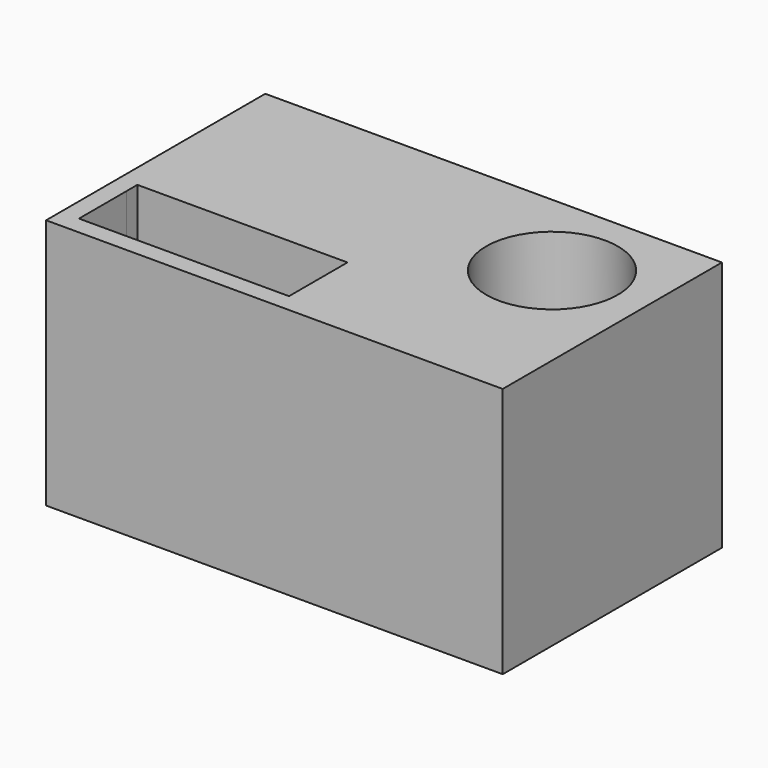
from build123d import *

# Parameters (mm, degrees)
F1_DEPTH = 30
F0_W     = 15.3
F0_H     = 3.7354312371
F0_W_2   = 15.5
F0_H_2   = 3.2645687629
F0_W_3   = 15.2
F2_DEPTH = 5
F3_W     = 100
F3_H     = 60
F3_W_2   = 92
F3_H_2   = 13
F3_H_3   = 33
F4_DEPTH = 25
F6_DEPTH = 25
F5_W     = 46
F5_H     = 13
F7_DEPTH = 25


with BuildPart() as f1:
    # F0 (on Top) → F1 (new body)
    with BuildSketch(Plane.XY):
        Polygon((0, -30), (50, -30), (50, -10), (18.90296489, -10), (0, -10), (0, -13), (46, -13), (46, -26), (0, -26), align=None)
        Polygon((-50, -30), (0, -30), (0, -26), (-46, -26), (-46, -13), (0, -13), (0, -10), (-50, -10), align=None)
        Polygon((18.90296489, -10), (50, -10), (50, 11.9792576879), (46, 11.9792576879), (46, 6.5132789314), (46, 0), (46, -3.7354312371), (46, -7), (30.5, -7), (18.90296489, -7), align=None)
        Polygon((46, 11.9792576879), (50, 11.9792576879), (50, 30), (-14.5761566237, 30), (-14.5761566237, 26), (0, 26), (15.2, 26), (30.5, 26), (46, 26), (46, 19.4), (46, 12.8), align=None)
        Polygon((0, -10), (18.90296489, -10), (18.90296489, -7), (15.2, -7), (0, -7), (-15.4, -7), (-30.7, -7), (-46, -7), (-46, -3.7354312371), (-46, 0), (-46, 6.5132789314), (-50, 6.5132789314), (-50, -10), align=None)
        Polygon((-50, 30), (-50, 6.5132789314), (-46, 6.5132789314), (-46, 12.8), (-46, 19.4), (-46, 26), (-30.7, 26), (-15.4, 26), (-14.5761566237, 26), (-14.5761566237, 30), align=None)
    extrude(amount=F1_DEPTH)

    # F0 (on Top) → F2 (join)
    with BuildSketch(Plane.XY):
        with BuildLine():
            Line((15.2, 11.5132789314), (15.2, 12.8))
            Line((15.2, 12.8), (0, 12.8))
            Line((0, 12.8), (0, 11.2))
            ThreePointArc((0, 11.2), (3.4229815471, 9.8446120957), (4.99017598, 6.5132789314))
            Line((4.99017598, 6.5132789314), (10.2, 6.5132789314))
            ThreePointArc((10.2, 6.5132789314), (11.6644660941, 10.0488128373), (15.2, 11.5132789314))
        make_face()
        with BuildLine():
            Line((0, 0), (15.2, 0))
            Line((15.2, 0), (15.2, 1.5132789314))
            ThreePointArc((15.2, 1.5132789314), (11.6644660941, 2.9777450254), (10.2, 6.5132789314))
            Line((10.2, 6.5132789314), (4.99017598, 6.5132789314))
            ThreePointArc((4.99017598, 6.5132789314), (4.9975433915, 6.3567164639), (5, 6.2))
            ThreePointArc((5, 6.2), (3.5355339059, 2.6644660941), (0, 1.2))
            Line((0, 1.2), (0, 0))
        make_face()
        with BuildLine():
            Line((0, 12.8), (15.2, 12.8))
            Line((15.2, 12.8), (15.2, 14.4))
            ThreePointArc((15.2, 14.4), (11.6644660941, 15.8644660941), (10.2, 19.4))
            Line((10.2, 19.4), (5, 19.4))
            ThreePointArc((5, 19.4), (3.5355339059, 15.8644660941), (0, 14.4))
            Line((0, 14.4), (0, 12.8))
        make_face()
        with BuildLine():
            Line((15.2, 26), (0, 26))
            Line((0, 26), (0, 24.4))
            ThreePointArc((0, 24.4), (3.5355339059, 22.9355339059), (5, 19.4))
            Line((5, 19.4), (10.2, 19.4))
            ThreePointArc((10.2, 19.4), (11.6644660941, 22.9355339059), (15.2, 24.4))
            Line((15.2, 24.4), (15.2, 26))
        make_face()
        with BuildLine():
            Line((15.2, 0), (30.5, 0))
            Line((30.5, 0), (30.5, 1.2))
            ThreePointArc((30.5, 1.2), (26.8553879043, 2.7770184529), (25.50982402, 6.5132789314))
            Line((25.50982402, 6.5132789314), (20.2, 6.5132789314))
            ThreePointArc((20.2, 6.5132789314), (18.7355339059, 2.9777450254), (15.2, 1.5132789314))
            Line((15.2, 1.5132789314), (15.2, 0))
        make_face()
        with BuildLine():
            Line((30.5, 11.2), (30.5, 12.8))
            Line((30.5, 12.8), (15.2, 12.8))
            Line((15.2, 12.8), (15.2, 11.5132789314))
            ThreePointArc((15.2, 11.5132789314), (18.7355339059, 10.0488128373), (20.2, 6.5132789314))
            Line((20.2, 6.5132789314), (25.50982402, 6.5132789314))
            ThreePointArc((25.50982402, 6.5132789314), (27.0770184529, 9.8446120957), (30.5, 11.2))
        make_face()
        with BuildLine():
            Line((15.2, 12.8), (30.5, 12.8))
            Line((30.5, 12.8), (30.5, 14.4))
            ThreePointArc((30.5, 14.4), (26.9644660941, 15.8644660941), (25.5, 19.4))
            Line((25.5, 19.4), (20.2, 19.4))
            ThreePointArc((20.2, 19.4), (18.7355339059, 15.8644660941), (15.2, 14.4))
            Line((15.2, 14.4), (15.2, 12.8))
        make_face()
        with BuildLine():
            Line((30.5, 26), (15.2, 26))
            Line((15.2, 26), (15.2, 24.4))
            ThreePointArc((15.2, 24.4), (18.7355339059, 22.9355339059), (20.2, 19.4))
            Line((20.2, 19.4), (25.5, 19.4))
            ThreePointArc((25.5, 19.4), (26.9644660941, 22.9355339059), (30.5, 24.4))
            Line((30.5, 24.4), (30.5, 26))
        make_face()
        with BuildLine():
            Line((35.5, 19.4), (46, 19.4))
            Line((46, 19.4), (46, 26))
            Line((46, 26), (30.5, 26))
            Line((30.5, 26), (30.5, 24.4))
            ThreePointArc((30.5, 24.4), (34.0355339059, 22.9355339059), (35.5, 19.4))
        make_face()
        with BuildLine():
            Line((30.5, 12.8), (46, 12.8))
            Line((46, 12.8), (46, 19.4))
            Line((46, 19.4), (35.5, 19.4))
            ThreePointArc((35.5, 19.4), (34.0355339059, 15.8644660941), (30.5, 14.4))
            Line((30.5, 14.4), (30.5, 12.8))
        make_face()
        with BuildLine():
            Line((46, 6.5132789314), (46, 11.9792576879))
            Line((46, 11.9792576879), (46, 12.8))
            Line((46, 12.8), (30.5, 12.8))
            Line((30.5, 12.8), (30.5, 11.2))
            ThreePointArc((30.5, 11.2), (33.9229815471, 9.8446120957), (35.49017598, 6.5132789314))
            Line((35.49017598, 6.5132789314), (46, 6.5132789314))
        make_face()
        with BuildLine():
            Line((46, 0), (46, 6.5132789314))
            Line((46, 6.5132789314), (35.49017598, 6.5132789314))
            ThreePointArc((35.49017598, 6.5132789314), (35.4975433915, 6.3567164639), (35.5, 6.2))
            ThreePointArc((35.5, 6.2), (34.0355339059, 2.6644660941), (30.5, 1.2))
            Line((30.5, 1.2), (30.5, 0))
            Line((30.5, 0), (46, 0))
        make_face()
        with BuildLine():
            Line((-15.4, 0), (0, 0))
            Line((0, 0), (0, 1.2))
            ThreePointArc((0, 1.2), (-3.6446120957, 2.7770184529), (-4.99017598, 6.5132789314))
            Line((-4.99017598, 6.5132789314), (-10.4, 6.5132789314))
            ThreePointArc((-10.4, 6.5132789314), (-11.8644660941, 2.9777450254), (-15.4, 1.5132789314))
            Line((-15.4, 1.5132789314), (-15.4, 0))
        make_face()
        with BuildLine():
            Line((0, 11.2), (0, 12.8))
            Line((0, 12.8), (-15.4, 12.8))
            Line((-15.4, 12.8), (-15.4, 11.5132789314))
            ThreePointArc((-15.4, 11.5132789314), (-11.8644660941, 10.0488128373), (-10.4, 6.5132789314))
            Line((-10.4, 6.5132789314), (-4.99017598, 6.5132789314))
            ThreePointArc((-4.99017598, 6.5132789314), (-3.4229815471, 9.8446120957), (0, 11.2))
        make_face()
        with BuildLine():
            Line((-15.4, 12.8), (0, 12.8))
            Line((0, 12.8), (0, 14.4))
            ThreePointArc((0, 14.4), (-3.5355339059, 15.8644660941), (-5, 19.4))
            Line((-5, 19.4), (-10.4, 19.4))
            ThreePointArc((-10.4, 19.4), (-11.8644660941, 15.8644660941), (-15.4, 14.4))
            Line((-15.4, 14.4), (-15.4, 12.8))
        make_face()
        with BuildLine():
            Line((0, 26), (-14.5761566237, 26))
            Line((-14.5761566237, 26), (-15.4, 26))
            Line((-15.4, 26), (-15.4, 24.4))
            ThreePointArc((-15.4, 24.4), (-11.8644660941, 22.9355339059), (-10.4, 19.4))
            Line((-10.4, 19.4), (-5, 19.4))
            ThreePointArc((-5, 19.4), (-3.5355339059, 22.9355339059), (0, 24.4))
            Line((0, 24.4), (0, 26))
        make_face()
        with BuildLine():
            Line((-15.4, 24.4), (-15.4, 26))
            Line((-15.4, 26), (-30.7, 26))
            Line((-30.7, 26), (-30.7, 24.4))
            ThreePointArc((-30.7, 24.4), (-27.1644660941, 22.9355339059), (-25.7, 19.4))
            Line((-25.7, 19.4), (-20.4, 19.4))
            ThreePointArc((-20.4, 19.4), (-18.9355339059, 22.9355339059), (-15.4, 24.4))
        make_face()
        with BuildLine():
            Line((-46, 26), (-46, 19.4))
            Line((-46, 19.4), (-35.7, 19.4))
            ThreePointArc((-35.7, 19.4), (-34.2355339059, 22.9355339059), (-30.7, 24.4))
            Line((-30.7, 24.4), (-30.7, 26))
            Line((-30.7, 26), (-46, 26))
        make_face()
        with BuildLine():
            Line((-46, 19.4), (-46, 12.8))
            Line((-46, 12.8), (-30.7, 12.8))
            Line((-30.7, 12.8), (-30.7, 14.4))
            ThreePointArc((-30.7, 14.4), (-34.2355339059, 15.8644660941), (-35.7, 19.4))
            Line((-35.7, 19.4), (-46, 19.4))
        make_face()
        with BuildLine():
            Line((-30.7, 14.4), (-30.7, 12.8))
            Line((-30.7, 12.8), (-15.4, 12.8))
            Line((-15.4, 12.8), (-15.4, 14.4))
            ThreePointArc((-15.4, 14.4), (-18.9355339059, 15.8644660941), (-20.4, 19.4))
            Line((-20.4, 19.4), (-25.7, 19.4))
            ThreePointArc((-25.7, 19.4), (-27.1644660941, 15.8644660941), (-30.7, 14.4))
        make_face()
        with BuildLine():
            Line((-15.4, 12.8), (-30.7, 12.8))
            Line((-30.7, 12.8), (-30.7, 11.5132789314))
            ThreePointArc((-30.7, 11.5132789314), (-27.1644660941, 10.0488128373), (-25.7, 6.5132789314))
            Line((-25.7, 6.5132789314), (-20.4, 6.5132789314))
            ThreePointArc((-20.4, 6.5132789314), (-18.9355339059, 10.0488128373), (-15.4, 11.5132789314))
            Line((-15.4, 11.5132789314), (-15.4, 12.8))
        make_face()
        with BuildLine():
            Line((-46, 12.8), (-46, 6.5132789314))
            Line((-46, 6.5132789314), (-35.7, 6.5132789314))
            ThreePointArc((-35.7, 6.5132789314), (-34.2355339059, 10.0488128373), (-30.7, 11.5132789314))
            Line((-30.7, 11.5132789314), (-30.7, 12.8))
            Line((-30.7, 12.8), (-46, 12.8))
        make_face()
        with BuildLine():
            Line((-35.7, 6.5132789314), (-46, 6.5132789314))
            Line((-46, 6.5132789314), (-46, 0))
            Line((-46, 0), (-30.7, 0))
            Line((-30.7, 0), (-30.7, 1.5132789314))
            ThreePointArc((-30.7, 1.5132789314), (-34.2355339059, 2.9777450254), (-35.7, 6.5132789314))
        make_face()
        with BuildLine():
            Line((-30.7, 1.5132789314), (-30.7, 0))
            Line((-30.7, 0), (-15.4, 0))
            Line((-15.4, 0), (-15.4, 1.5132789314))
            ThreePointArc((-15.4, 1.5132789314), (-18.9355339059, 2.9777450254), (-20.4, 6.5132789314))
            Line((-20.4, 6.5132789314), (-25.7, 6.5132789314))
            ThreePointArc((-25.7, 6.5132789314), (-27.1644660941, 2.9777450254), (-30.7, 1.5132789314))
        make_face()
        with Locations((-38.35, -1.8677156186)):
            Rectangle(F0_W, F0_H)
        with Locations((-23.05, -1.8677156186)):
            Rectangle(F0_W, F0_H)
        Polygon((-0.1, -3.7354312371), (0, -3.7354312371), (0, -0.4), (0, 0), (-15.4, 0), (-15.4, -3.7354312371), align=None)
        Polygon((0, -3.7354312371), (15.2, -3.7354312371), (15.2, 0), (0, 0), (0, -0.4), align=None)
        with Locations((22.85, -1.8677156186)):
            Rectangle(F0_W, F0_H)
        with Locations((38.25, -1.8677156186)):
            Rectangle(F0_W_2, F0_H)
        with Locations((-38.35, -5.3677156186)):
            Rectangle(F0_W, F0_H_2)
        with Locations((-23.05, -5.3677156186)):
            Rectangle(F0_W, F0_H_2)
        Polygon((-15.4, -7), (0, -7), (0, -3.7354312371), (-0.1, -3.7354312371), (-15.4, -3.7354312371), align=None)
        with Locations((7.6, -5.3677156186)):
            Rectangle(F0_W_3, F0_H_2)
        Polygon((15.2, -7), (18.90296489, -7), (30.5, -7), (30.5, -3.7354312371), (15.2, -3.7354312371), align=None)
        with Locations((38.25, -5.3677156186)):
            Rectangle(F0_W_2, F0_H_2)
    extrude(amount=F2_DEPTH)

    # F3 (on face) → F4 (join)
    with BuildSketch(Plane.XY.offset(30)):
        Rectangle(F3_W, F3_H)
        with Locations((0, -19.5)):
            Rectangle(F3_W_2, F3_H_2, mode=Mode.SUBTRACT)
        with Locations((0, 9.5)):
            Rectangle(F3_W_2, F3_H_3, mode=Mode.SUBTRACT)
        with Locations((0, 9.5)):
            Rectangle(F3_W_2, F3_H_3)
        with Locations((0, -19.5)):
            Rectangle(F3_W_2, F3_H_2)
    extrude(amount=F4_DEPTH)

    # F5 (on face) → F6 (cut)
    with BuildSketch(Plane.XY.offset(55)):
        with BuildLine():
            ThreePointArc((43.5903112084, 9.5), (29.1903112084, 23.9), (14.7903112084, 9.5))
            Line((14.7903112084, 9.5), (29.1903112084, 9.5))
            Line((29.1903112084, 9.5), (43.5903112084, 9.5))
        make_face()
        with BuildLine():
            Line((29.1903112084, 9.5), (14.7903112084, 9.5))
            ThreePointArc((14.7903112084, 9.5), (29.1903112084, -4.9), (43.5903112084, 9.5))
            Line((43.5903112084, 9.5), (29.1903112084, 9.5))
        make_face()
    extrude(amount=-F6_DEPTH, mode=Mode.SUBTRACT)

    # F5 (on face) → F7 (cut)
    with BuildSketch(Plane.XY.offset(55)):
        with Locations((-23, -19.5)):
            Rectangle(F5_W, F5_H)
        Polygon((-46.0146069527, -10), (-46, -13), (0, -13), (0, -10), align=None)
    extrude(amount=-F7_DEPTH, mode=Mode.SUBTRACT)


solid = f1.part
